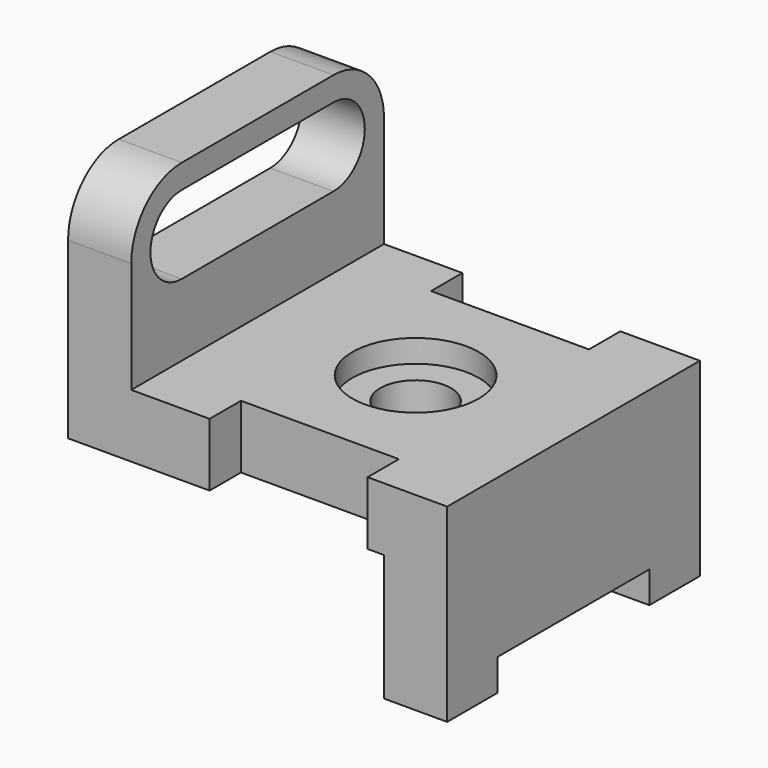
from build123d import *

# Parameters (mm, degrees)
F0_R     = 7.112
F1_DEPTH = 12.7
F3_DEPTH = 12.7
F4_R     = 12.7
F5_DEPTH = 4.572
F7_DEPTH = 12.7


with BuildPart() as f1:
    # F0 (on Top) → F1 (new body)
    with BuildSketch(Plane.XY):
        Polygon((0, 63.5), (0, 0), (15.748, 0), (15.748, 7.874), (47.498, 7.874), (47.498, 0), (63.5, 0), (63.5, 63.5), (47.498, 63.5), (47.498, 55.626), (15.748, 55.626), (15.748, 63.5), align=None)
        with Locations((31.75, 31.75)):
            Circle(F0_R, mode=Mode.SUBTRACT)
    extrude(amount=F1_DEPTH)

    # F2 (on face) → F3 (join)
    with BuildSketch(Plane.YZ.offset(63.5)):
        Polygon((0, -19.05), (0, -25.4), (12.7, -25.4), (12.7, -19.05), (50.8, -19.05), (50.8, -25.4), (63.5, -25.4), (63.5, -19.05), (63.5, 0), (0, 0), align=None)
    extrude(amount=-F3_DEPTH)

    # F4 (on face) → F5 (cut)
    with BuildSketch(Plane.XY.offset(12.7)):
        with Locations((31.75, 31.75)):
            Circle(F4_R)
    extrude(amount=-F5_DEPTH, mode=Mode.SUBTRACT)

    # F6 (on face) → F7 (join)
    with BuildSketch(Plane(origin=(0, 0, 0), x_dir=(0, -1, 0), z_dir=(-1, 0, 0))):
        with BuildLine():
            Line((-63.5, 0), (0, 0))
            Line((0, 0), (0, 35.052))
            ThreePointArc((0, 35.052), (-3.719744, 44.032256), (-12.7, 47.752))
            Line((-12.7, 47.752), (-50.8, 47.752))
            ThreePointArc((-50.8, 47.752), (-59.780256, 44.032256), (-63.5, 35.052))
            Line((-63.5, 35.052), (-63.5, 0))
        make_face()
        with BuildLine():
            ThreePointArc((-50.8, 27.178), (-58.674, 35.052), (-50.8, 42.926))
            Line((-50.8, 42.926), (-12.7, 42.926))
            ThreePointArc((-12.7, 42.926), (-4.826, 35.052), (-12.7, 27.178))
            Line((-12.7, 27.178), (-50.8, 27.178))
        make_face(mode=Mode.SUBTRACT)
    extrude(amount=F7_DEPTH)


solid = f1.part
